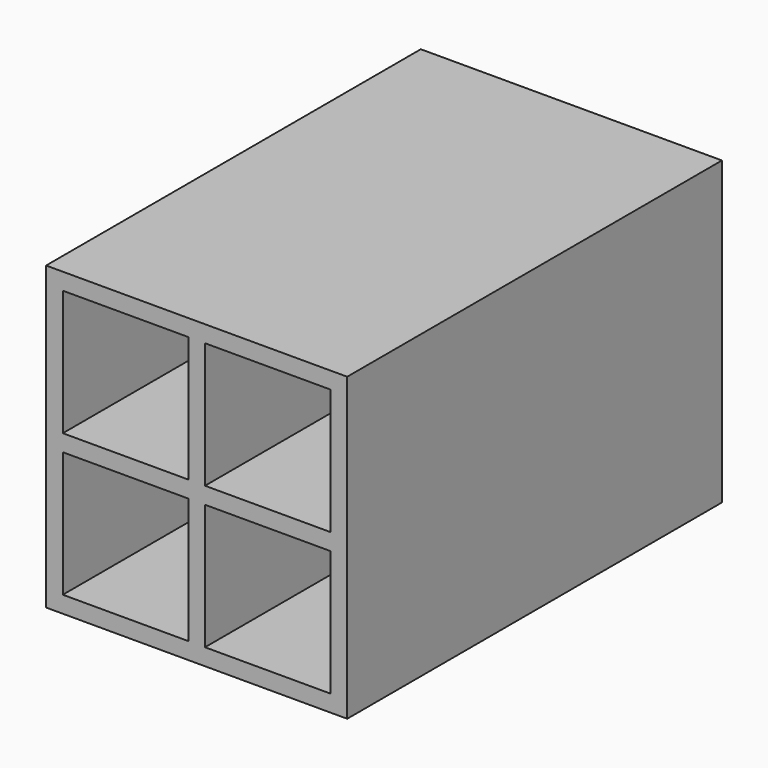
from build123d import *

# Parameters (mm, degrees)
F0_W     = 57.15
F0_H     = 57.15
F1_DEPTH = 88.9
F2_W     = 23.8125
F2_H     = 23.8125
F3_DEPTH = 82.55
F4_W     = 23.8125
F4_H     = 23.8125
F5_DEPTH = 82.55
F6_W     = 23.8125
F6_H     = 23.8125
F7_DEPTH = 82.55
F8_W     = 23.8125
F8_H     = 23.8125
F9_DEPTH = 82.55


with BuildPart() as f1:
    # F0 (on Front) → F1 (new body)
    with BuildSketch(Plane.XZ):
        Rectangle(F0_W, F0_H)
    extrude(amount=F1_DEPTH)

    # F2 (on face) → F3 (cut)
    with BuildSketch(Plane.XZ.offset(88.9)):
        with Locations((-13.49375, 13.49375)):
            Rectangle(F2_W, F2_H)
    extrude(amount=-F3_DEPTH, mode=Mode.SUBTRACT)

    # F4 (on face) → F5 (cut)
    with BuildSketch(Plane.XZ.offset(88.9)):
        with Locations((13.49375, 13.49375)):
            Rectangle(F4_W, F4_H)
    extrude(amount=-F5_DEPTH, mode=Mode.SUBTRACT)

    # F6 (on face) → F7 (cut)
    with BuildSketch(Plane.XZ.offset(88.9)):
        with Locations((-13.49375, -13.49375)):
            Rectangle(F6_W, F6_H)
    extrude(amount=-F7_DEPTH, mode=Mode.SUBTRACT)

    # F8 (on face) → F9 (cut)
    with BuildSketch(Plane.XZ.offset(88.9)):
        with Locations((13.49375, -13.49375)):
            Rectangle(F8_W, F8_H)
    extrude(amount=-F9_DEPTH, mode=Mode.SUBTRACT)


solid = f1.part
